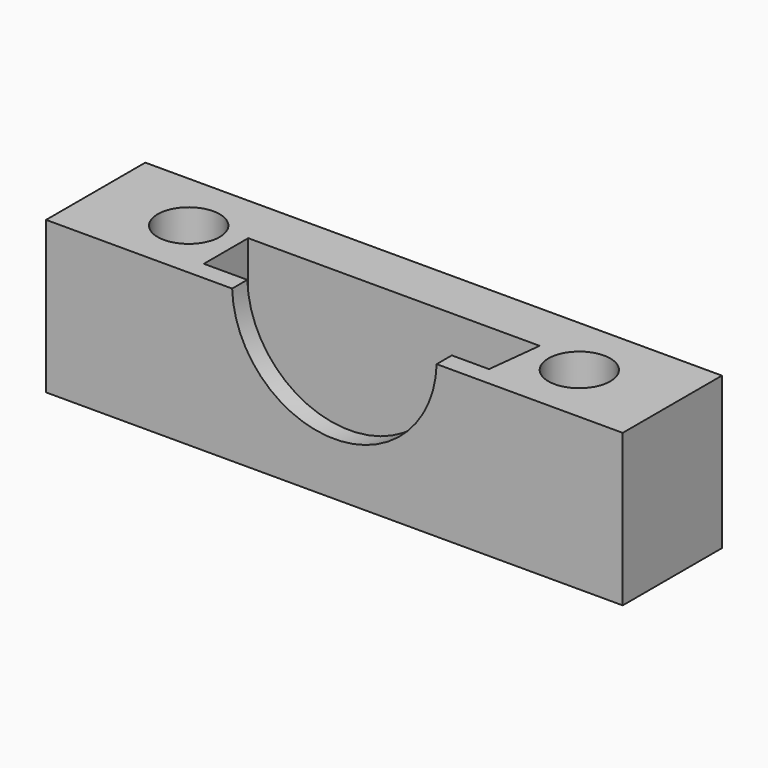
from build123d import *

# Parameters (mm, degrees)
F0_W     = 46.5
F0_H     = 10
F0_R     = 2.5
F1_DEPTH = 12.25
F2_R     = 8.25
F3_DEPTH = 5


with BuildPart() as f1:
    # F0 (on Top) → F1 (new body)
    with BuildSketch(Plane.XY):
        Rectangle(F0_W, F0_H)
        Polygon((11.25, -3.472136), (-11.75, -3.472136), (-11.75, 1), (11.75, 1), align=None, mode=Mode.SUBTRACT)
        with Locations((-15.75, 0)):
            Circle(F0_R, mode=Mode.SUBTRACT)
        with Locations((15.75, 0)):
            Circle(F0_R, mode=Mode.SUBTRACT)
    extrude(amount=F1_DEPTH)

    # F2 (on face) → F3 (cut)
    with BuildSketch(Plane.XZ.offset(5)):
        with Locations((0, 12.5)):
            Circle(F2_R)
    extrude(amount=-F3_DEPTH, mode=Mode.SUBTRACT)


solid = f1.part
